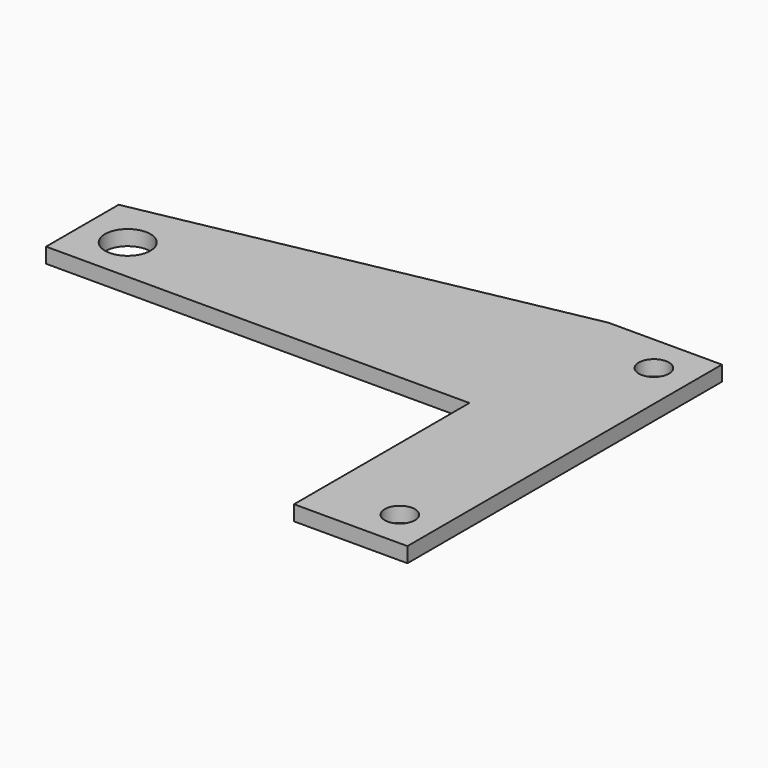
from build123d import *

# Parameters (mm, degrees)
F0_W     = 35.5
F0_H     = 26
F0_R     = 1
F0_R_2   = 1.5
F1_DEPTH = 1
F2_W     = 28
F2_H     = 14.5
F3_DEPTH = 1


with BuildPart() as f1:
    # F0 (on Top) → F1 (new body)
    with BuildSketch(Plane.XY):
        Rectangle(F0_W, F0_H)
        with Locations((15.25, -10.5)):
            Circle(F0_R, mode=Mode.SUBTRACT)
        with Locations((-14.75, 4.5)):
            Circle(F0_R_2, mode=Mode.SUBTRACT)
        with Locations((15.25, 10.5)):
            Circle(F0_R, mode=Mode.SUBTRACT)
    extrude(amount=F1_DEPTH)

    # F2 (on face) → F3 (cut, through all)
    with BuildSketch(Plane.XY.offset(1)):
        with Locations((-3.75, -5.75)):
            Rectangle(F2_W, F2_H)
        Polygon((-17.75, 13), (-17.75, 7.5), (10.25, 13), align=None)
    extrude(amount=-F3_DEPTH, mode=Mode.SUBTRACT)


solid = f1.part
